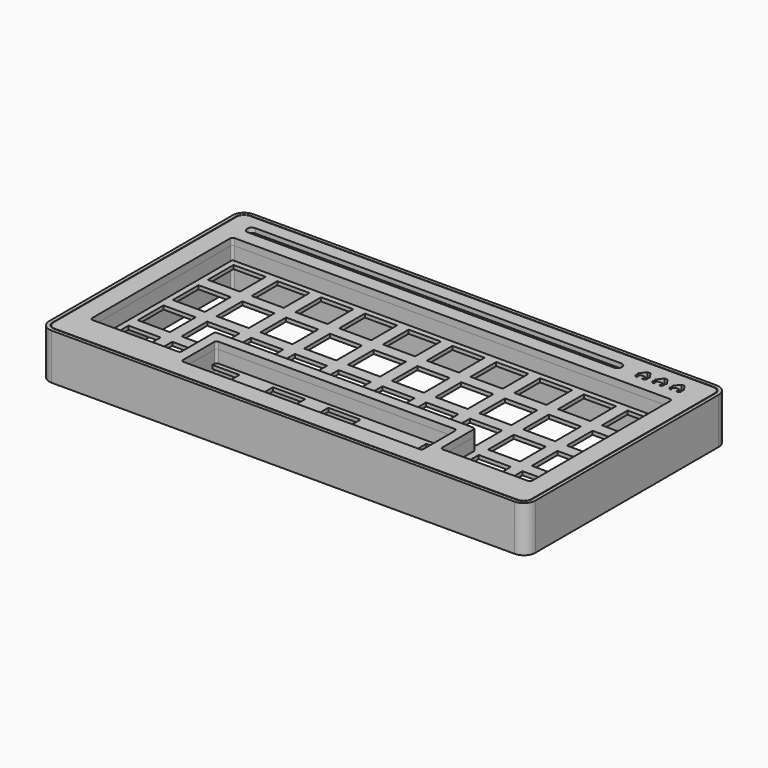
from build123d import *

# Parameters (mm, degrees)
SKETCH_W                      = 190.5
SKETCH_H                      = 80.9625
PAD_DEPTH                     = 1.6
SKETCH001_W                   = 14
SKETCH001_H                   = 14
POCKET_DEPTH                  = 5
SKETCH001_LINEARPATTERN_2_W   = 14
SKETCH001_LINEARPATTERN_2_H   = 14
POCKET_LINEARPATTERN_2_DEPTH  = 5
SKETCH001_LINEARPATTERN_3_W   = 14
SKETCH001_LINEARPATTERN_3_H   = 14
POCKET_LINEARPATTERN_3_DEPTH  = 5
SKETCH001_LINEARPATTERN_4_W   = 14
SKETCH001_LINEARPATTERN_4_H   = 14
POCKET_LINEARPATTERN_4_DEPTH  = 5
SKETCH001_LINEARPATTERN_5_W   = 14
SKETCH001_LINEARPATTERN_5_H   = 14
POCKET_LINEARPATTERN_5_DEPTH  = 5
SKETCH001_LINEARPATTERN_6_W   = 14
SKETCH001_LINEARPATTERN_6_H   = 14
POCKET_LINEARPATTERN_6_DEPTH  = 5
SKETCH001_LINEARPATTERN_7_W   = 14
SKETCH001_LINEARPATTERN_7_H   = 14
POCKET_LINEARPATTERN_7_DEPTH  = 5
SKETCH001_LINEARPATTERN_8_W   = 14
SKETCH001_LINEARPATTERN_8_H   = 14
POCKET_LINEARPATTERN_8_DEPTH  = 5
SKETCH001_LINEARPATTERN_9_W   = 14
SKETCH001_LINEARPATTERN_9_H   = 14
POCKET_LINEARPATTERN_9_DEPTH  = 5
SKETCH001_LINEARPATTERN_10_W  = 14
SKETCH001_LINEARPATTERN_10_H  = 14
POCKET_LINEARPATTERN_10_DEPTH = 5
LINEARPATTERN001_COUNT        = 3
LINEARPATTERN001_PITCH        = 19.05
SKETCH002_W                   = 14
SKETCH002_H                   = 14
POCKET001_DEPTH               = 5
SKETCH003_W                   = 211.5
SKETCH003_H                   = 109.725
PAD001_DEPTH                  = 10
POCKET002_DEPTH               = 30
SKETCH005_W                   = 104.775
SKETCH005_H                   = 19.05
POCKET003_DEPTH               = 30
POCKET004_DEPTH               = 2
FILLET_R                      = 5
FILLET001_R                   = 1
POCKET005_DEPTH               = 20
POCKET006_DEPTH               = 3
PAD002_DEPTH                  = 3
PAD003_DEPTH                  = 3
POCKET007_DEPTH               = 5


with BuildPart() as plate:
    # Sketch → Pad (new body)
    with BuildSketch(Plane.XY):
        Rectangle(SKETCH_W, SKETCH_H)
    extrude(amount=PAD_DEPTH)

    # Sketch001 (on Face6 of Pad) → Pocket (cut)
    with BuildSketch(Plane.XY.offset(1.6)):
        with Locations((-85.725, 30.95625)):
            Rectangle(SKETCH001_W, SKETCH001_H)
    pocket = extrude(amount=-POCKET_DEPTH, mode=Mode.SUBTRACT)

    # Sketch001 LinearPattern 2 → Pocket LinearPattern 2 (cut)
    with BuildSketch(Plane(origin=(19.05, 0, 1.6), x_dir=(1, 0, 0), z_dir=(0, 0, 1))):
        with Locations((-85.725, 30.95625)):
            Rectangle(SKETCH001_LINEARPATTERN_2_W, SKETCH001_LINEARPATTERN_2_H)
    pocket_linearpattern_2 = extrude(amount=-POCKET_LINEARPATTERN_2_DEPTH, mode=Mode.SUBTRACT)

    # Sketch001 LinearPattern 3 → Pocket LinearPattern 3 (cut)
    with BuildSketch(Plane(origin=(38.1, 0, 1.6), x_dir=(1, 0, 0), z_dir=(0, 0, 1))):
        with Locations((-85.725, 30.95625)):
            Rectangle(SKETCH001_LINEARPATTERN_3_W, SKETCH001_LINEARPATTERN_3_H)
    pocket_linearpattern_3 = extrude(amount=-POCKET_LINEARPATTERN_3_DEPTH, mode=Mode.SUBTRACT)

    # Sketch001 LinearPattern 4 → Pocket LinearPattern 4 (cut)
    with BuildSketch(Plane(origin=(57.15, 0, 1.6), x_dir=(1, 0, 0), z_dir=(0, 0, 1))):
        with Locations((-85.725, 30.95625)):
            Rectangle(SKETCH001_LINEARPATTERN_4_W, SKETCH001_LINEARPATTERN_4_H)
    pocket_linearpattern_4 = extrude(amount=-POCKET_LINEARPATTERN_4_DEPTH, mode=Mode.SUBTRACT)

    # Sketch001 LinearPattern 5 → Pocket LinearPattern 5 (cut)
    with BuildSketch(Plane(origin=(76.2, 0, 1.6), x_dir=(1, 0, 0), z_dir=(0, 0, 1))):
        with Locations((-85.725, 30.95625)):
            Rectangle(SKETCH001_LINEARPATTERN_5_W, SKETCH001_LINEARPATTERN_5_H)
    pocket_linearpattern_5 = extrude(amount=-POCKET_LINEARPATTERN_5_DEPTH, mode=Mode.SUBTRACT)

    # Sketch001 LinearPattern 6 → Pocket LinearPattern 6 (cut)
    with BuildSketch(Plane(origin=(95.25, 0, 1.6), x_dir=(1, 0, 0), z_dir=(0, 0, 1))):
        with Locations((-85.725, 30.95625)):
            Rectangle(SKETCH001_LINEARPATTERN_6_W, SKETCH001_LINEARPATTERN_6_H)
    pocket_linearpattern_6 = extrude(amount=-POCKET_LINEARPATTERN_6_DEPTH, mode=Mode.SUBTRACT)

    # Sketch001 LinearPattern 7 → Pocket LinearPattern 7 (cut)
    with BuildSketch(Plane(origin=(114.3, 0, 1.6), x_dir=(1, 0, 0), z_dir=(0, 0, 1))):
        with Locations((-85.725, 30.95625)):
            Rectangle(SKETCH001_LINEARPATTERN_7_W, SKETCH001_LINEARPATTERN_7_H)
    pocket_linearpattern_7 = extrude(amount=-POCKET_LINEARPATTERN_7_DEPTH, mode=Mode.SUBTRACT)

    # Sketch001 LinearPattern 8 → Pocket LinearPattern 8 (cut)
    with BuildSketch(Plane(origin=(133.35, 0, 1.6), x_dir=(1, 0, 0), z_dir=(0, 0, 1))):
        with Locations((-85.725, 30.95625)):
            Rectangle(SKETCH001_LINEARPATTERN_8_W, SKETCH001_LINEARPATTERN_8_H)
    pocket_linearpattern_8 = extrude(amount=-POCKET_LINEARPATTERN_8_DEPTH, mode=Mode.SUBTRACT)

    # Sketch001 LinearPattern 9 → Pocket LinearPattern 9 (cut)
    with BuildSketch(Plane(origin=(152.4, 0, 1.6), x_dir=(1, 0, 0), z_dir=(0, 0, 1))):
        with Locations((-85.725, 30.95625)):
            Rectangle(SKETCH001_LINEARPATTERN_9_W, SKETCH001_LINEARPATTERN_9_H)
    pocket_linearpattern_9 = extrude(amount=-POCKET_LINEARPATTERN_9_DEPTH, mode=Mode.SUBTRACT)

    # Sketch001 LinearPattern 10 → Pocket LinearPattern 10 (cut)
    with BuildSketch(Plane(origin=(171.45, 0, 1.6), x_dir=(1, 0, 0), z_dir=(0, 0, 1))):
        with Locations((-85.725, 30.95625)):
            Rectangle(SKETCH001_LINEARPATTERN_10_W, SKETCH001_LINEARPATTERN_10_H)
    pocket_linearpattern_10 = extrude(amount=-POCKET_LINEARPATTERN_10_DEPTH, mode=Mode.SUBTRACT)

    # LinearPattern001: Pocket, Pocket LinearPattern 2, Pocket LinearPattern 3, Pocket LinearPattern 4, Pocket LinearPattern 5, Pocket LinearPattern 6, Pocket LinearPattern 7, Pocket LinearPattern 8, Pocket LinearPattern 9, Pocket LinearPattern 10 ×3
    with Locations(*[(0, -i * LINEARPATTERN001_PITCH, 0) for i in range(1, LINEARPATTERN001_COUNT)]):
        add(pocket, mode=Mode.SUBTRACT)
        add(pocket_linearpattern_2, mode=Mode.SUBTRACT)
        add(pocket_linearpattern_3, mode=Mode.SUBTRACT)
        add(pocket_linearpattern_4, mode=Mode.SUBTRACT)
        add(pocket_linearpattern_5, mode=Mode.SUBTRACT)
        add(pocket_linearpattern_6, mode=Mode.SUBTRACT)
        add(pocket_linearpattern_7, mode=Mode.SUBTRACT)
        add(pocket_linearpattern_8, mode=Mode.SUBTRACT)
        add(pocket_linearpattern_9, mode=Mode.SUBTRACT)
        add(pocket_linearpattern_10, mode=Mode.SUBTRACT)

    # Sketch002 (on Face5 of MultiTransform) → Pocket001 (cut)
    with BuildSketch(Plane.XY.offset(1.6)):
        with Locations((-85.725, -26.19375)):
            Rectangle(SKETCH002_W, SKETCH002_H)
        with Locations((85.725, -26.19375)):
            Rectangle(SKETCH002_W, SKETCH002_H)
        with Locations((-19.05, -30.95625)):
            Rectangle(SKETCH002_W, SKETCH002_H)
        with Locations((5.05, -30.95625)):
            Rectangle(SKETCH002_W, SKETCH002_H)
        with Locations((-66.675, -26.19375)):
            Rectangle(SKETCH002_W, SKETCH002_H)
        with Locations((-47.625, -30.95625)):
            Rectangle(SKETCH002_W, SKETCH002_H)
        with Locations((47.625, -30.95625)):
            Rectangle(SKETCH002_W, SKETCH002_H)
        with Locations((66.675, -26.19375)):
            Rectangle(SKETCH002_W, SKETCH002_H)
    extrude(amount=-POCKET001_DEPTH, mode=Mode.SUBTRACT)


with BuildPart() as body001:
    # Sketch003 → Pad001 (new body, symmetric)
    with BuildSketch(Plane.XY):
        with Locations((0, 3.88125)):
            Rectangle(SKETCH003_W, SKETCH003_H)
    extrude(amount=PAD001_DEPTH, both=True)

    # Sketch004 (on Face6 of Pad001) → Pocket002 (cut)
    with BuildSketch(Plane.XY.offset(10)):
        Polygon((-95.75, 40.98125), (-95.75, -36.21875), (-56.65, -36.21875), (-56.65, -17.16875), (56.65, -17.16875), (56.65, -36.21875), (95.75, -36.21875), (95.75, 40.98125), align=None)
    extrude(amount=-POCKET002_DEPTH, mode=Mode.SUBTRACT)

    # Sketch005 (on Face5 of Pocket002) → Pocket003 (cut)
    with BuildSketch(Plane.XY.offset(10)):
        with Locations((0, -31.45625)):
            Rectangle(SKETCH005_W, SKETCH005_H)
    extrude(amount=-POCKET003_DEPTH, mode=Mode.SUBTRACT)

    # Sketch006 (on Face5 of Pocket003) → Pocket004 (cut)
    with BuildSketch(Plane.XY.offset(10)):
        with BuildLine():
            Line((-93.75, 51.1125), (65.378808, 51.1125))
            ThreePointArc((65.378808, 47.1125), (67.378808, 49.1125), (65.378808, 51.1125))
            Line((65.378808, 47.1125), (-93.75, 47.1125))
            ThreePointArc((-93.75, 51.1125), (-95.75, 49.1125), (-93.75, 47.1125))
        make_face()
    extrude(amount=-POCKET004_DEPTH, mode=Mode.SUBTRACT)

    # Fillet
    fillet_edges = [body001.edges().sort_by_distance(p)[0] for p in [
        (-105.75, 58.74375, 0),
        (-105.75, -50.98125, 0),
        (105.75, -50.98125, 0),
        (105.75, 58.74375, 0),
    ]]
    fillet(fillet_edges, radius=FILLET_R)

    # Fillet001
    fillet001_edges = [body001.edges().sort_by_distance(p)[0] for p in [
        (-95.75, 40.98125, 0),
        (-56.65, -36.21875, 0),
        (-56.65, -17.16875, 0),
        (-95.75, -36.21875, 0),
        (95.75, 40.98125, 0),
        (52.3875, -21.93125, 0),
        (52.3875, -40.98125, 0),
        (95.75, -36.21875, 0),
        (56.65, -17.16875, 0),
        (56.65, -36.21875, 0),
        (-52.3875, -40.98125, 0),
        (-52.3875, -21.93125, 0),
    ]]
    fillet(fillet001_edges, radius=FILLET001_R)

    # Sketch007 (on Face34 of Fillet001) → Pocket005 (cut)
    with BuildSketch(Plane.XY.offset(10)):
        Polygon((76.46511, 51.6125), (77.71511, 51.6125), (79.59011, 49.1125), (79.59011, 48.4875), (78.96511, 48.4875), (79.59011, 47.55), (78.96511, 46.6125), (78.02761, 46.6125), (78.65261, 47.55), (78.02761, 48.4875), (76.15261, 48.4875), (75.52761, 47.55), (76.15261, 46.6125), (75.21511, 46.6125), (74.59011, 47.55), (75.21511, 48.4875), (74.59011, 48.4875), (74.59011, 49.1125), align=None)
        Polygon((83.868993, 51.609299), (85.118993, 51.609299), (86.993993, 49.109299), (86.993993, 48.484299), (86.368993, 48.484299), (86.993993, 47.546799), (86.368993, 46.609299), (85.431493, 46.609299), (86.056493, 47.546799), (85.431493, 48.484299), (83.556493, 48.484299), (82.931493, 47.546799), (83.556493, 46.609299), (82.618993, 46.609299), (81.993993, 47.546799), (82.618993, 48.484299), (81.993993, 48.484299), (81.993993, 49.109299), align=None)
        Polygon((91.272876, 51.606098), (92.522876, 51.606098), (94.397876, 49.106098), (94.397876, 48.481098), (93.772876, 48.481098), (94.397876, 47.543598), (93.772876, 46.606098), (92.835376, 46.606098), (93.460376, 47.543598), (92.835376, 48.481098), (90.960376, 48.481098), (90.335376, 47.543598), (90.960376, 46.606098), (90.022876, 46.606098), (89.397876, 47.543598), (90.022876, 48.481098), (89.397876, 48.481098), (89.397876, 49.106098), align=None)
    extrude(amount=-POCKET005_DEPTH, mode=Mode.SUBTRACT)

    # Sketch009 (on Face88 of Pocket005) → Pocket006 (cut)
    with BuildSketch(Plane.XY.offset(10)):
        with BuildLine():
            ThreePointArc((100.75, -49.48125), (103.224874, -48.456124), (104.25, -45.98125))
            Line((104.25, 53.74375), (104.25, -45.98125))
            ThreePointArc((104.25, 53.74375), (103.224874, 56.218624), (100.75, 57.24375))
            Line((-100.75, 57.24375), (100.75, 57.24375))
            ThreePointArc((-100.75, 57.24375), (-103.224874, 56.218624), (-104.25, 53.74375))
            Line((-104.25, -45.98125), (-104.25, 53.74375))
            ThreePointArc((-104.25, -45.98125), (-103.224874, -48.456124), (-100.75, -49.48125))
            Line((100.75, -49.48125), (-100.75, -49.48125))
        make_face()
        with BuildLine():
            Line((-93.75, 51.1125), (65.378808, 51.1125))
            ThreePointArc((65.378808, 47.1125), (67.378808, 49.1125), (65.378808, 51.1125))
            Line((65.378808, 47.1125), (-93.75, 47.1125))
            ThreePointArc((-93.75, 51.1125), (-95.75, 49.1125), (-93.75, 47.1125))
        make_face(mode=Mode.SUBTRACT)
    extrude(amount=-POCKET006_DEPTH, mode=Mode.SUBTRACT)


with BuildPart() as body002:
    # Sketch008 → Pad002 (new body)
    with BuildSketch(Plane.XY):
        Polygon((-93.444534, -40.941689), (-92.194534, -40.941689), (-90.319534, -43.441689), (-90.319534, -44.066689), (-90.944534, -44.066689), (-90.319534, -45.004189), (-90.944534, -45.941689), (-91.882034, -45.941689), (-91.257034, -45.004189), (-91.882034, -44.066689), (-93.757034, -44.066689), (-94.382034, -45.004189), (-93.757034, -45.941689), (-94.694534, -45.941689), (-95.319534, -45.004189), (-94.694534, -44.066689), (-95.319534, -44.066689), (-95.319534, -43.441689), align=None)
    extrude(amount=PAD002_DEPTH)


with BuildPart() as body002_1:
    # Body002 placement: moved
    add(body002.part.moved(Location((0, 0, 7))))


with BuildPart() as body003:
    # ShapeBinder → Pad003 (new body)
    with BuildSketch(Plane(origin=(0.800055, 3.210582, 7), x_dir=(0, 1, 0), z_dir=(0, 0, 1))):
        with BuildLine():
            ThreePointArc((-52.691832, -99.949945), (-51.666706, -102.424818), (-49.191832, -103.449945))
            Line((-49.191832, -103.449945), (50.533168, -103.449945))
            ThreePointArc((50.533168, -103.449945), (53.008041, -102.424818), (54.033168, -99.949945))
            Line((54.033168, -99.949945), (54.033168, 101.550055))
            ThreePointArc((54.033168, 101.550055), (53.008041, 104.024929), (50.533168, 105.050055))
            Line((50.533168, 105.050055), (-49.191832, 105.050055))
            ThreePointArc((-49.191832, 105.050055), (-51.666706, 104.024929), (-52.691832, 101.550055))
            Line((-52.691832, 101.550055), (-52.691832, -99.949945))
        make_face()
        Polygon((44.333016, -89.53532), (43.395516, -90.16032), (43.395516, -89.22282), (44.333016, -88.59782), (45.270516, -89.22282), (45.270516, -88.59782), (45.895516, -88.59782), (48.395516, -90.47282), (48.395516, -91.72282), (45.895516, -93.59782), (45.270516, -93.59782), (45.270516, -92.97282), (44.333016, -93.59782), (43.395516, -92.97282), (43.395516, -92.03532), (44.333016, -92.66032), (45.270516, -92.03532), (45.270516, -90.16032), align=None, mode=Mode.SUBTRACT)
        Polygon((44.336217, -82.131437), (43.398717, -82.756437), (43.398717, -81.818937), (44.336217, -81.193937), (45.273717, -81.818937), (45.273717, -81.193937), (45.898717, -81.193937), (48.398717, -83.068937), (48.398717, -84.318937), (45.898717, -86.193937), (45.273717, -86.193937), (45.273717, -85.568937), (44.336217, -86.193937), (43.398717, -85.568937), (43.398717, -84.631437), (44.336217, -85.256437), (45.273717, -84.631437), (45.273717, -82.756437), align=None, mode=Mode.SUBTRACT)
        Polygon((44.339418, -74.727554), (43.401918, -75.352554), (43.401918, -74.415054), (44.339418, -73.790054), (45.276918, -74.415054), (45.276918, -73.790054), (45.901918, -73.790054), (48.401918, -75.665054), (48.401918, -76.915054), (45.901918, -78.790054), (45.276918, -78.790054), (45.276918, -78.165054), (44.339418, -78.790054), (43.401918, -78.165054), (43.401918, -77.227554), (44.339418, -77.852554), (45.276918, -77.227554), (45.276918, -75.352554), align=None, mode=Mode.SUBTRACT)
        with BuildLine():
            Line((-43.191832, 53.187555), (-26.141832, 53.187555))
            ThreePointArc((-26.141832, 53.187555), (-25.434726, 52.894662), (-25.141832, 52.187555))
            Line((-25.141832, 52.187555), (-25.141832, -50.587445))
            ThreePointArc((-25.141832, -50.587445), (-25.434726, -51.294551), (-26.141832, -51.587445))
            Line((-26.141832, -51.587445), (-43.191832, -51.587445))
            ThreePointArc((-43.191832, -51.587445), (-43.898939, -51.294551), (-44.191832, -50.587445))
            Line((-44.191832, -50.587445), (-44.191832, 52.187555))
            ThreePointArc((-44.191832, 52.187555), (-43.898939, 52.894662), (-43.191832, 53.187555))
        make_face(mode=Mode.SUBTRACT)
        with BuildLine():
            ThreePointArc((-39.429332, 95.550055), (-39.136439, 96.257162), (-38.429332, 96.550055))
            Line((-38.429332, 96.550055), (36.770668, 96.550055))
            ThreePointArc((36.770668, 96.550055), (37.477774, 96.257162), (37.770668, 95.550055))
            Line((37.770668, 95.550055), (37.770668, -93.949945))
            ThreePointArc((37.770668, -93.949945), (37.477774, -94.657051), (36.770668, -94.949945))
            Line((36.770668, -94.949945), (-38.429332, -94.949945))
            ThreePointArc((-38.429332, -94.949945), (-39.136439, -94.657051), (-39.429332, -93.949945))
            Line((-39.429332, -93.949945), (-39.429332, -56.849945))
            ThreePointArc((-39.429332, -56.849945), (-39.136439, -56.142838), (-38.429332, -55.849945))
            Line((-38.429332, -55.849945), (-21.379332, -55.849945))
            ThreePointArc((-21.379332, -55.849945), (-20.672226, -55.557051), (-20.379332, -54.849945))
            Line((-20.379332, -54.849945), (-20.379332, 56.450055))
            ThreePointArc((-20.379332, 56.450055), (-20.672226, 57.157162), (-21.379332, 57.450055))
            Line((-21.379332, 57.450055), (-38.429332, 57.450055))
            ThreePointArc((-38.429332, 57.450055), (-39.136439, 57.742949), (-39.429332, 58.450055))
            Line((-39.429332, 58.450055), (-39.429332, 95.550055))
        make_face(mode=Mode.SUBTRACT)
        with BuildLine():
            Line((43.901918, -64.578753), (43.901918, 94.550055))
            ThreePointArc((43.901918, 94.550055), (45.901918, 96.550055), (47.901918, 94.550055))
            Line((47.901918, 94.550055), (47.901918, -64.578753))
            ThreePointArc((47.901918, -64.578753), (45.901918, -66.578753), (43.901918, -64.578753))
        make_face(mode=Mode.SUBTRACT)
    extrude(amount=PAD003_DEPTH)

    # Sketch010 (on Face92 of Pad003) → Pocket007 (cut)
    with BuildSketch(Plane.XY.offset(10)):
        with BuildLine():
            ThreePointArc((104.5, 53.74375), (103.40165, 56.395401), (100.75, 57.49375))
            Line((-100.75, 57.49375), (100.75, 57.49375))
            ThreePointArc((-100.75, 57.49375), (-103.40165, 56.3954), (-104.5, 53.74375))
            Line((-104.5, -45.98125), (-104.5, 53.74375))
            ThreePointArc((-104.5, -45.98125), (-103.40165, -48.6329), (-100.75, -49.73125))
            Line((-100.75, -49.73125), (100.75, -49.73125))
            ThreePointArc((100.75, -49.73125), (103.40165, -48.6329), (104.5, -45.98125))
            Line((104.5, 53.74375), (104.5, -45.98125))
        make_face()
        with BuildLine():
            ThreePointArc((-100.75, 56.99375), (-103.048097, 56.041847), (-104, 53.74375))
            Line((-104, -45.98125), (-104, 53.74375))
            ThreePointArc((-104, -45.98125), (-103.048097, -48.279347), (-100.75, -49.23125))
            Line((100.75, -49.23125), (-100.75, -49.23125))
            ThreePointArc((100.75, -49.23125), (103.048097, -48.279347), (104, -45.98125))
            Line((104, 53.74375), (104, -45.98125))
            ThreePointArc((104, 53.74375), (103.048097, 56.041847), (100.75, 56.99375))
            Line((-100.75, 56.99375), (100.75, 56.99375))
        make_face(mode=Mode.SUBTRACT)
    extrude(amount=-POCKET007_DEPTH, mode=Mode.SUBTRACT)


solid = Compound([plate.part, body001.part, body002_1.part, body003.part])
